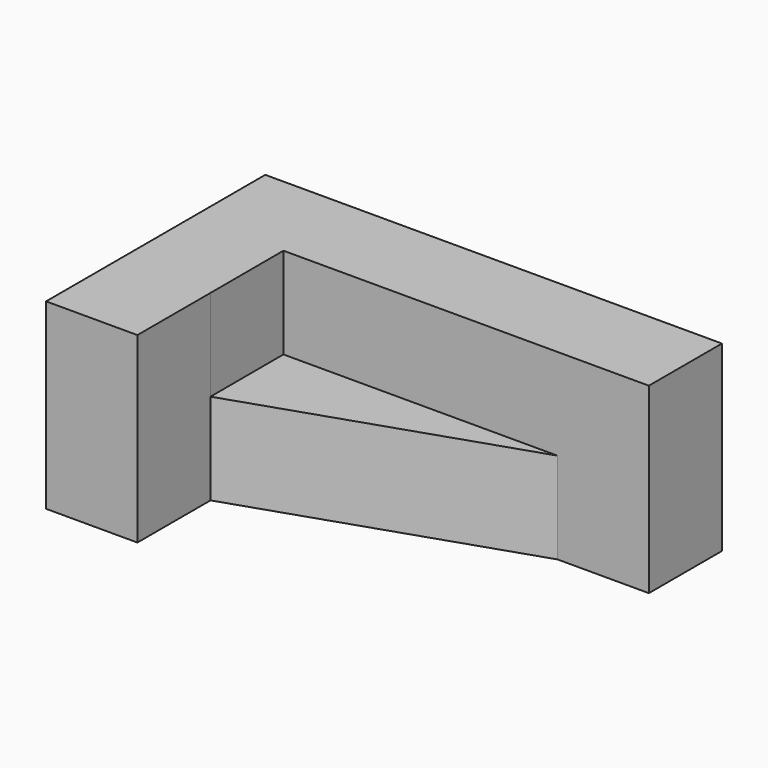
from build123d import *

# Parameters (mm, degrees)
F1_DEPTH = 50.8
F3_DEPTH = 25.4


with BuildPart() as f1:
    # F0 (on Top) → F1 (new body)
    with BuildSketch(Plane.XY):
        Polygon((0, 76.2), (0, 0), (25.4, 0), (25.4, 25.4), (101.6, 50.8), (127, 50.8), (127, 76.2), align=None)
    extrude(amount=F1_DEPTH)

    # F2 (on face) → F3 (cut)
    with BuildSketch(Plane.XY.offset(50.8)):
        Polygon((25.4, 25.4), (101.6, 50.8), (25.367331, 50.8), align=None)
    extrude(amount=-F3_DEPTH, mode=Mode.SUBTRACT)


solid = f1.part
